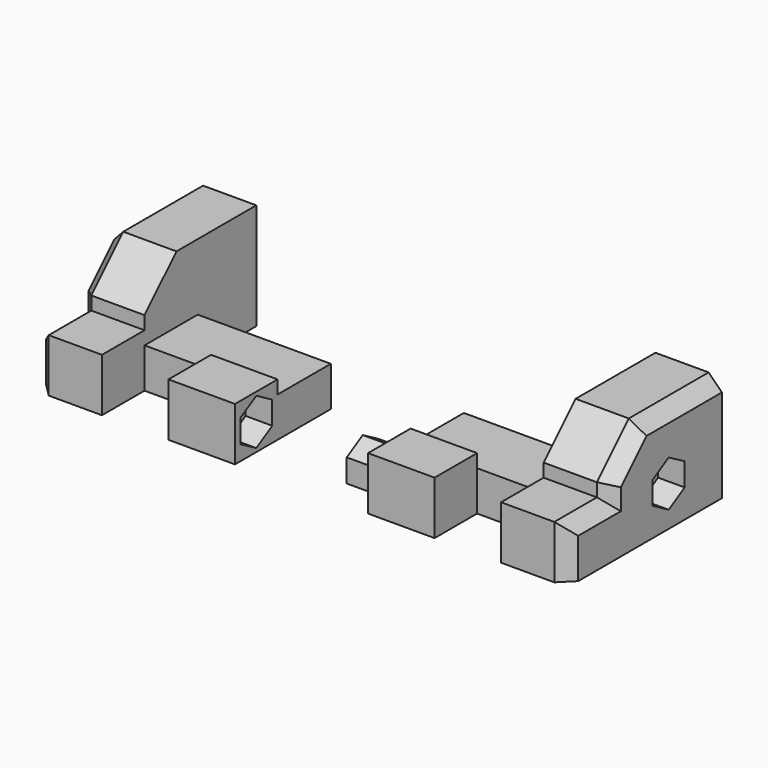
from build123d import *

# Parameters (mm, degrees)
F0_W       = 4
F0_H       = 3.0000000403
F1_DEPTH   = 5
F2_DEPTH   = 10
F3_W       = 5
F3_H       = 3.0000000403
F4_DEPTH   = 4
F5_W       = 5
F5_H       = 4
F6_DEPTH   = 1
F8_DEPTH   = 2
F10_DEPTH  = 2
F12_DEPTH  = 2
F13_W      = 5
F13_H      = 4
F14_DEPTH  = 1
F17_DEPTH  = 4
F18_SIZE   = 1
F18_2_SIZE = 1


with BuildPart() as f1:
    # F0 (on Right) → F1 (new body)
    with BuildSketch(Plane.YZ):
        Polygon((-29.4999998615, 7.0000000403), (-24.4999998615, 7.0000000403), (-24.4999998615, 10.0000000805), (-26.9999998615, 10.0000000805), (-29.4999998615, 10.0000000805), align=None)
        Polygon((-24.4999998615, 10.0000000805), (-24.4999998615, 7.0000000403), (-18.9999998615, 7.0000000403), (-18.9999998615, 13.0000000805), (-26.9999998615, 13.0000000805), (-26.9999998615, 10.0000000805), align=None)
        with Locations((-31.4999998615, 8.5000000604)):
            Rectangle(F0_W, F0_H)
        Polygon((-29.4999998615, 10.0000000805), (-26.9999998615, 10.0000000805), (-26.9999998615, 13.0000000805), (-18.9999998615, 13.0000000805), (-18.9999998615, 15.0000000805), (-26.4999998615, 15.0000000805), (-29.4999998615, 12.0000000805), align=None)
    extrude(amount=-F1_DEPTH)

    # F0 (on Right) → F2 (join)
    with BuildSketch(Plane.YZ):
        Polygon((-29.4999998615, 7.0000000403), (-24.4999998615, 7.0000000403), (-24.4999998615, 10.0000000805), (-26.9999998615, 10.0000000805), (-29.4999998615, 10.0000000805), align=None)
    extrude(amount=F2_DEPTH)

    # F3 (on face) → F4 (join)
    with BuildSketch(Plane.XZ.offset(29.4999998615)):
        with Locations((7.5, 8.5000000604)):
            Rectangle(F3_W, F3_H)
    extrude(amount=F4_DEPTH)

    # F5 (on face) → F6 (join)
    with BuildSketch(Plane.XY.offset(10.0000000805)):
        with Locations((7.5, -31.4999998615)):
            Rectangle(F5_W, F5_H)
    extrude(amount=F6_DEPTH)

    # F7 (on face) → F8 (cut)
    with BuildSketch(Plane.YZ.offset(10)):
        Polygon((-32.9999998615, 9.8660254642), (-32.9999998615, 8.1339746566), (-31.4999998615, 7.2679492528), (-29.9999998615, 8.1339746566), (-29.9999998615, 9.8660254642), (-31.4999998615, 10.732050868), align=None)
    extrude(amount=-F8_DEPTH, mode=Mode.SUBTRACT)

    # F9 (on face) → F10 (cut)
    with BuildSketch(Plane(origin=(0, -18.9999998615, 0), x_dir=(-1, 0, 0), z_dir=(0, 1, 0))):
        Polygon((1, 10.8660254642), (1, 9.1339746566), (2.5, 8.2679492528), (4, 9.1339746566), (4, 10.8660254642), (2.5, 11.732050868), align=None)
    extrude(amount=-F10_DEPTH, mode=Mode.SUBTRACT)

    # F11 (on face) → F12 (cut)
    with BuildSketch(Plane(origin=(-5, 0, 0), x_dir=(0, -1, 0), z_dir=(-1, 0, 0))):
        Polygon((22.4999998615, 10.8660254843), (22.4999998615, 9.1339746768), (23.9999998615, 8.267949273), (25.4999998615, 9.1339746768), (25.4999998615, 10.8660254843), (23.9999998615, 11.7320508881), align=None)
    extrude(amount=-F12_DEPTH, mode=Mode.SUBTRACT)

    # F13 (on face) → F14 (join)
    with BuildSketch(Plane.XY.offset(10.0000000805)):
        with Locations((-2.5, -31.4999998615)):
            Rectangle(F13_W, F13_H)
    extrude(amount=F14_DEPTH)


with BuildPart() as f16_1:
    # F16: instance of F1
    add(f1.part.mirror(Plane.YZ.offset(15)))

    # F17 (add): a face of the model
    f17_faces = [f16_1.faces().sort_by_distance(p)[0] for p in [
        (22, -31.4999998615, 9.0000000604),
    ]]
    extrude(f17_faces, amount=F17_DEPTH)

    # F18#2
    f18_2_edges = [f16_1.edges().sort_by_distance(p)[0] for p in [
        (35, -33.5, 9),
        (35, -31.5, 11),
        (35, -29.5, 11.5),
        (35, -28, 13.5),
        (35, -22.75, 15),
    ]]
    chamfer(f18_2_edges, length=F18_2_SIZE)


with BuildPart() as f1_1:
    add(f1.part)

    # F18
    f18_edges = [f1_1.edges().sort_by_distance(p)[0] for p in [
        (-5, -22.75, 15),
        (-5, -28, 13.5),
        (-5, -31.5, 11),
        (-5, -33.5, 9),
        (-5, -29.5, 11.5),
    ]]
    chamfer(f18_edges, length=F18_SIZE)


solid = Compound([f16_1.part, f1_1.part])
